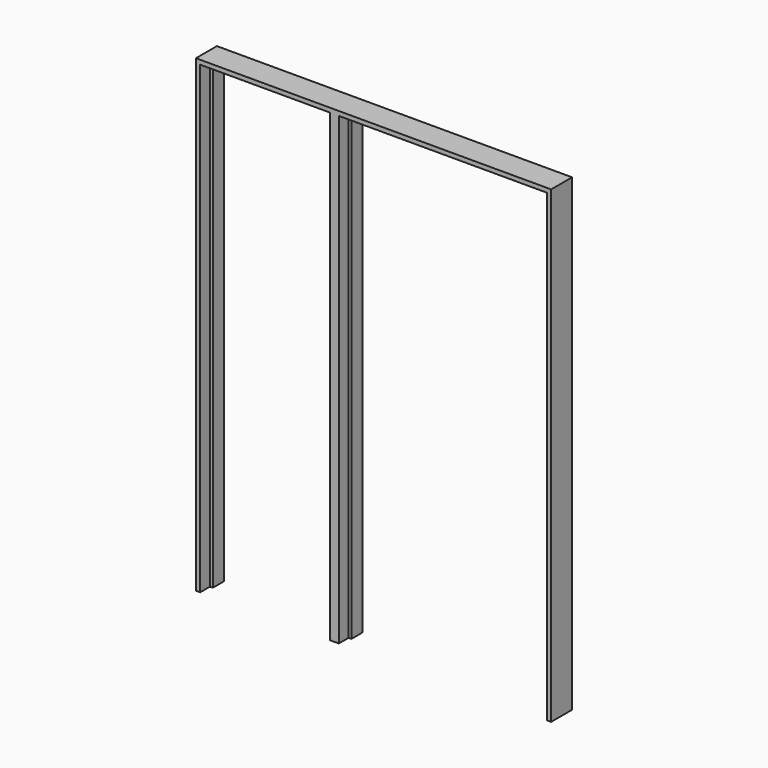
from build123d import *

# Parameters (mm, degrees)
F3_DEPTH      = 61.9125
F5_DEPTH      = 50.8
F5_DEPTH_BACK = 3.175


with BuildPart() as f3:
    # F2 (on offset) → F3 (new body)
    with BuildSketch(Plane.XZ.offset(-3.175)):
        Polygon((0, 2054.225), (0, 0), (19.05, 0), (31.75, 0), (31.75, 2041.525), (581.025, 2041.525), (581.025, 0), (593.725, 0), (612.775, 0), (631.825, 0), (644.525, 0), (644.525, 2041.525), (1539.08125, 2041.525), (1539.08125, 0), (1551.78125, 0), (1570.83125, 0), (1570.83125, 2073.275), (0, 2073.275), align=None)
    extrude(amount=-F3_DEPTH)

    # F4 (on Front) → F5 (join, two sides)
    with BuildSketch(Plane.XZ) as f5_sk:
        Polygon((0, 2054.225), (0, 0), (19.05, 0), (19.05, 2041.525), (19.05, 2054.225), (593.725, 2054.225), (593.725, 0), (612.775, 0), (631.825, 0), (631.825, 2054.225), (1551.78125, 2054.225), (1551.78125, 2041.525), (1551.78125, 0), (1570.83125, 0), (1570.83125, 2073.275), (0, 2073.275), align=None)
    extrude(amount=F5_DEPTH)
    extrude(f5_sk.sketch, amount=-F5_DEPTH_BACK)


solid = f3.part
